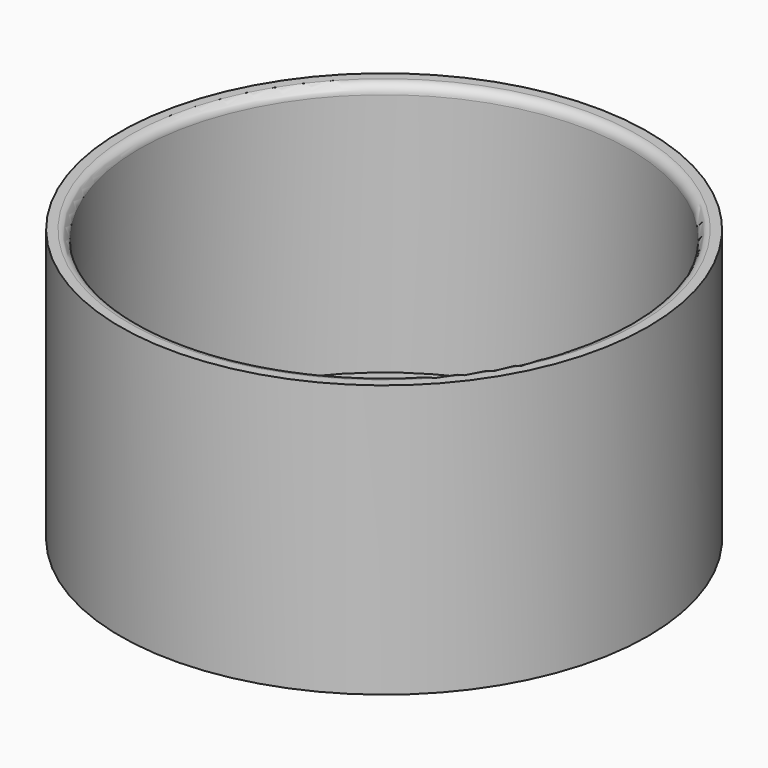
from build123d import *

# Parameters (mm, degrees)
F0_R     = 14.25
F1_DEPTH = 14.7
F2_T     = -1
F3_R     = 0.5


with BuildPart() as f1:
    # F0 (on Top) → F1 (new body)
    with BuildSketch(Plane.XY):
        Circle(F0_R)
    extrude(amount=F1_DEPTH)

    # F2
    f2_openings = [f1.faces().sort_by_distance(p)[0] for p in [
        (0, 0, 14.7),
    ]]
    offset(amount=F2_T, openings=f2_openings)

    # F3
    f3_edges = [f1.edges().sort_by_distance(p)[0] for p in [
        (-13.25, 0, 14.7),
    ]]
    fillet(f3_edges, radius=F3_R)


solid = f1.part
